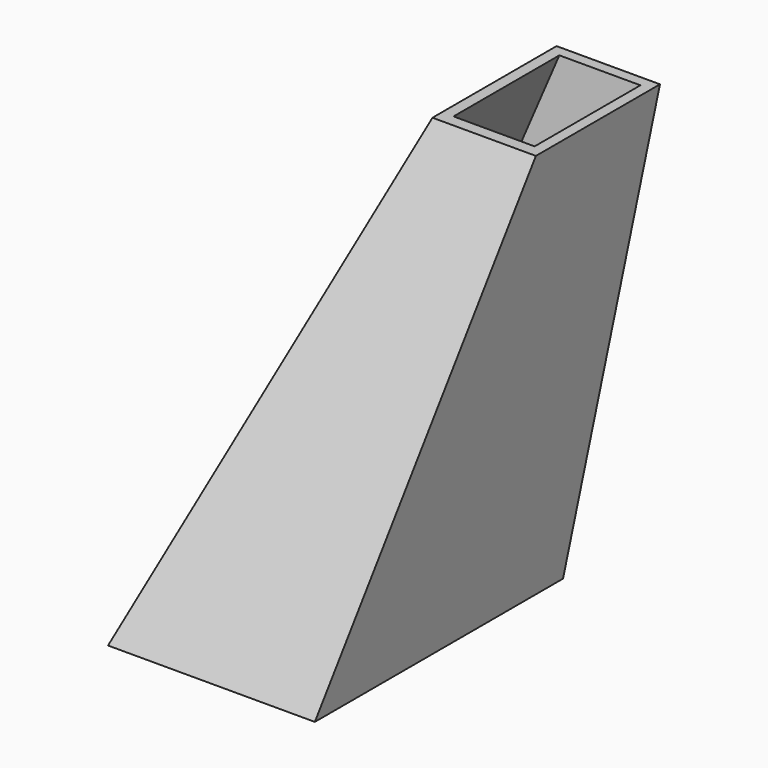
from build123d import *

# Parameters (mm, degrees)
F0_W = 24
F0_H = 36
F3_W = 48
F3_H = 72
F5_T = -2.5


with BuildPart() as f4:
    # F0 (on Top) → F4 section 0
    with BuildSketch(Plane.XY):
        with Locations((24.5, 30.5)):
            Rectangle(F0_W, F0_H)
    # F3 (on offset) → F4 section 1
    with BuildSketch(Plane.XY.offset(-100)):
        Rectangle(F3_W, F3_H)
    loft()

    # F5
    f5_openings = [f4.faces().sort_by_distance(p)[0] for p in [
        (24.5, 30.5, 0),
        (0, 0, -100),
    ]]
    offset(amount=F5_T, openings=f5_openings, kind=Kind.INTERSECTION)


solid = f4.part
